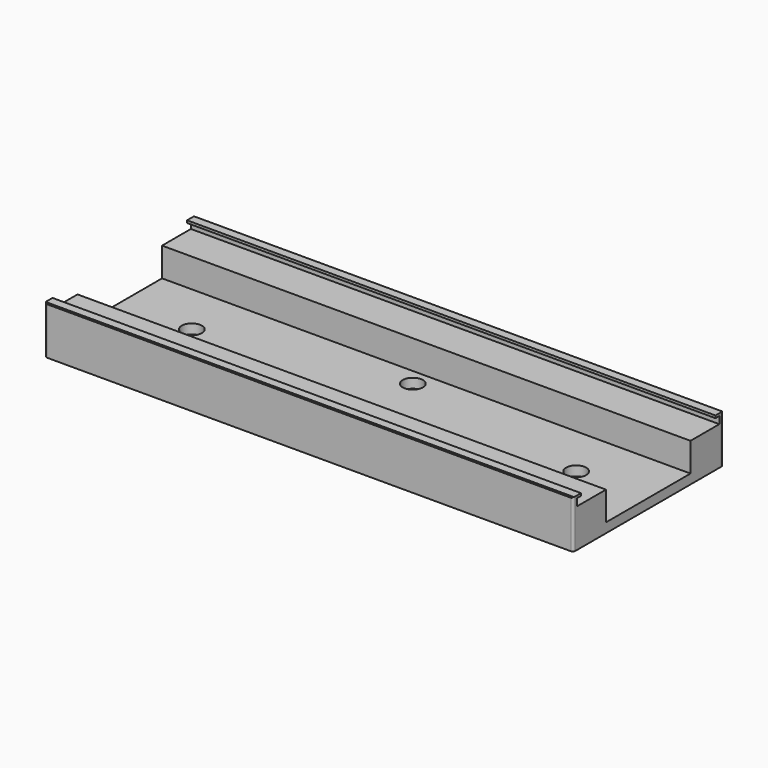
from build123d import *

# Parameters (mm, degrees)
F0_W     = 39
F0_H     = 10
F1_DEPTH = 110
F2_W     = 35
F2_H     = 1
F3_DEPTH = 110
F5_DEPTH = 110
F6_W     = 22
F6_H     = 12
F7_DEPTH = 110
F8_R     = 2.1
F9_DEPTH = 25
F10_SIZE = 0.2
F11_R    = 0.5


with BuildPart() as f1:
    # F0 (on Right) → F1 (new body)
    with BuildSketch(Plane.YZ):
        Rectangle(F0_W, F0_H)
    extrude(amount=F1_DEPTH)

    # F2 (on face) → F3 (cut)
    with BuildSketch(Plane.YZ.offset(110)):
        with Locations((0, 5)):
            Rectangle(F2_W, F2_H)
    extrude(amount=-F3_DEPTH, mode=Mode.SUBTRACT)

    # F4 (on face) → F5 (cut)
    with BuildSketch(Plane.YZ.offset(110)):
        Polygon((-18.5, 3), (18.5, 3), (18.5, 4.5), (17.5, 4.5), (17.5, 5.544198), (-17.5, 5.544198), (-17.5, 4.5), (-18.5, 4.5), align=None)
    extrude(amount=-F5_DEPTH, mode=Mode.SUBTRACT)

    # F6 (on face) → F7 (cut)
    with BuildSketch(Plane.YZ.offset(110)):
        with Locations((0, 3)):
            Rectangle(F6_W, F6_H)
    extrude(amount=-F7_DEPTH, mode=Mode.SUBTRACT)

    # F8 (on face) → F9 (cut)
    with BuildSketch(Plane.XY.offset(-3)):
        with Locations((15, 0)):
            Circle(F8_R)
        with Locations((95, 0)):
            Circle(F8_R)
        with Locations((55, -7.5)):
            Circle(F8_R)
        with Locations((55, 7.5)):
            Circle(F8_R)
    extrude(amount=-F9_DEPTH, mode=Mode.SUBTRACT)

    # F10
    f10_edges = [f1.edges().sort_by_distance(p)[0] for p in [
        (55, -19.5, 5),
        (55, 19.5, 5),
    ]]
    chamfer(f10_edges, length=F10_SIZE)

    # F11
    f11_edges = [f1.edges().sort_by_distance(p)[0] for p in [
        (0, -19.5, -0.1),
        (0, 19.5, -0.1),
        (110, -19.5, -0.1),
        (110, 19.5, -0.1),
    ]]
    fillet(f11_edges, radius=F11_R)


solid = f1.part
